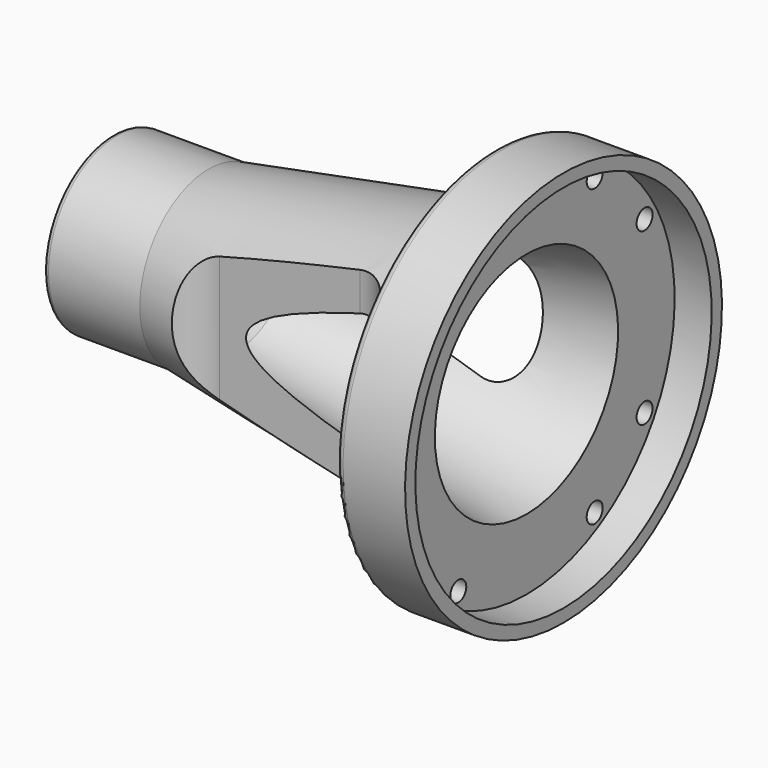
from build123d import *

# Parameters (mm, degrees)
F2_R     = 1.016
F3_R     = 1.524
F4_R     = 0.762
F6_DEPTH = 25.4
F8_D     = 2.9464


with BuildPart() as f1:
    # F0 (on Front) → F1 (revolve)
    with BuildSketch(Plane.XZ):
        Polygon((-17.4389516755, -9.398), (-36.0310370011, -9.398), (-36.0310370011, -12.7), (-21.8070370011, -12.7), (20.3569629989, -20.066), (20.3569629989, -29.21), (30.5169629989, -29.21), (30.5169629989, -27.31135), (25.0559629989, -27.31135), (25.0559629989, -16.891), align=None)
    revolve(axis=Axis((-0.3203684359, 0, 0), (1, 0, 0)))

    # F2
    f2_edges = [f1.edges().sort_by_distance(p)[0] for p in [
        (20.356963, 0, 29.21),
    ]]
    fillet(f2_edges, radius=F2_R)

    # F3
    f3_edges = [f1.edges().sort_by_distance(p)[0] for p in [
        (20.356963, 0, 20.066),
    ]]
    fillet(f3_edges, radius=F3_R)

    # F4
    f4_edges = [f1.edges().sort_by_distance(p)[0] for p in [
        (-36.031037, 0, 12.7),
    ]]
    fillet(f4_edges, radius=F4_R)

    # F5 (on Top) → F6 (cut, symmetric)
    with BuildSketch(Plane.XY):
        with BuildLine():
            ThreePointArc((-17.6282525063, 17.526), (-15.7683805668, 13.0358719395), (-11.2782525063, 11.176))
            Line((-11.2782525063, 11.176), (9.4349629989, 11.176))
            ThreePointArc((9.4349629989, 11.176), (13.9250910594, 13.0358719395), (15.7849629989, 17.526))
            Line((15.7849629989, 17.526), (15.7849629989, 21.3468402398))
            Line((15.7849629989, 21.3468402398), (-17.6282525063, 21.2479885668))
            Line((-17.6282525063, 21.2479885668), (-17.6282525063, 17.526))
        make_face()
        with BuildLine():
            Line((9.4349629989, -11.176), (-11.2782525063, -11.176))
            ThreePointArc((-11.2782525063, -11.176), (-15.7683805668, -13.0358719395), (-17.6282525063, -17.526))
            Line((-17.6282525063, -17.526), (-17.6282525063, -20.1750025153))
            Line((-17.6282525063, -20.1750025153), (15.7849629989, -21.3468402398))
            Line((15.7849629989, -21.3468402398), (15.7849629989, -17.526))
            ThreePointArc((15.7849629989, -17.526), (13.9250910594, -13.0358719395), (9.4349629989, -11.176))
        make_face()
    extrude(amount=F6_DEPTH, both=True, mode=Mode.SUBTRACT)

    # F8 (through all)
    with Locations(Plane.YZ.offset(25.0559629989)):
        with Locations((12.573, 21.7678), (21.7678, 12.573), (21.7678, -12.573), (12.573, -21.7678), (-12.573, -21.7678), (-21.7678, -12.573), (-21.7678, 12.573), (-12.573, 21.7678)):
            Hole(F8_D / 2)


solid = f1.part
